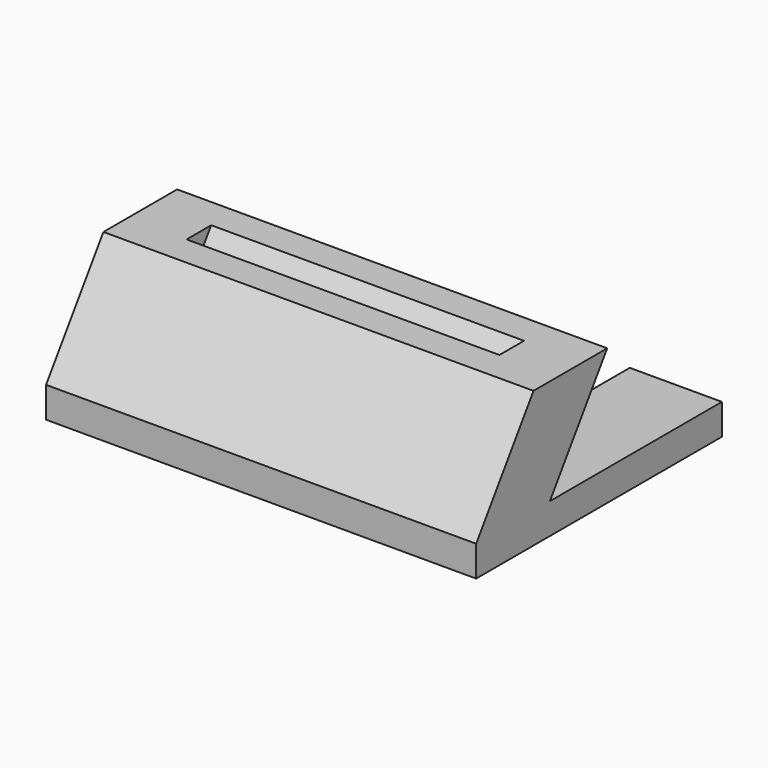
from build123d import *

# Parameters (mm, degrees)
F1_DEPTH = 5
F3_W     = 70
F3_H     = 15
F3_W_2   = 50.9169398992
F3_H_2   = 5


with BuildPart() as f1:
    # F0 (on Top) → F1 (new body)
    with BuildSketch(Plane.XY):
        Polygon((-3.7761517194, 36.0778824546), (-3.7761517194, -13.9221175454), (66.2238482806, -13.9221175454), (66.2238482806, 36.0778824546), (51.2238482806, 36.0778824546), (51.2238482806, 1.0778824546), (11.2238482806, 1.0778824546), (11.2238482806, 36.0778824546), align=None)
    extrude(amount=F1_DEPTH)

    # F4: sweep along a path in F2
    with BuildLine(Plane(origin=(-3.7761517194, 0, 0), x_dir=(0, -1, 0), z_dir=(-1, 0, 0))) as f4_path:
        Line((13.9221175454, 5), (2.2568308138, 22.1641566604))
    # F3 (on face) → F4 (sweep)
    with BuildSketch(Plane.XY.offset(5)):
        with Locations((31.2238482806, -6.4221175454)):
            Rectangle(F3_W, F3_H)
        with Locations((31.2238482806, -6.4221175454)):
            Rectangle(F3_W_2, F3_H_2, mode=Mode.SUBTRACT)
    sweep(path=f4_path.line)


solid = f1.part
